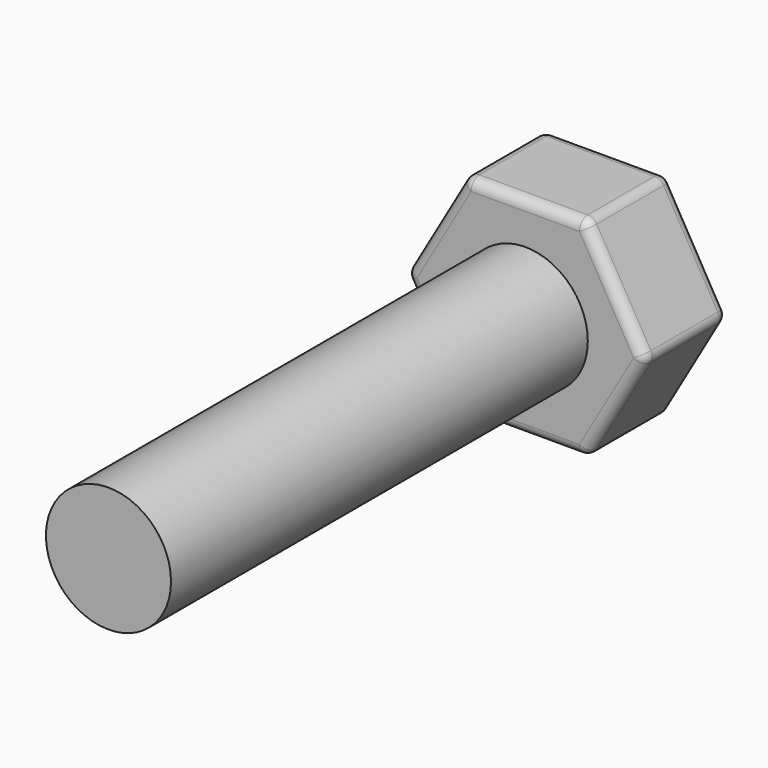
from build123d import *

# Parameters (mm, degrees)
F0_R     = 3
F1_DEPTH = 25
F2_DEPTH = 5
F3_R     = 0.5


with BuildPart() as f1:
    # F0 (on Front) → F1 (new body)
    with BuildSketch(Plane.XZ):
        Circle(F0_R)
    extrude(amount=F1_DEPTH)

    # F0 (on Front) → F2 (join)
    with BuildSketch(Plane.XZ):
        Polygon((-2.886751, -5), (2.886751, -5), (5.773503, 0), (2.886751, 5), (-2.886751, 5), (-5.773503, 0), align=None)
        Circle(F0_R, mode=Mode.SUBTRACT)
        Circle(F0_R)
    extrude(amount=-F2_DEPTH)

    # F3
    f3_edges = [f1.edges().sort_by_distance(p)[0] for p in [
        (-2.886751, 2.5, -5),
        (2.886751, 2.5, -5),
        (0, 0, -5),
        (0, 5, -5),
        (5.773503, 2.5, 0),
        (4.330127, 0, -2.5),
        (4.330127, 5, -2.5),
        (4.330127, 5, 2.5),
        (0, 5, 5),
        (-4.330127, 5, 2.5),
        (-4.330127, 5, -2.5),
        (-5.773503, 2.5, 0),
        (-4.330127, 0, -2.5),
        (-2.886751, 2.5, 5),
        (-4.330127, 0, 2.5),
        (2.886751, 2.5, 5),
        (0, 0, 5),
        (4.330127, 0, 2.5),
    ]]
    fillet(f3_edges, radius=F3_R)


solid = f1.part
